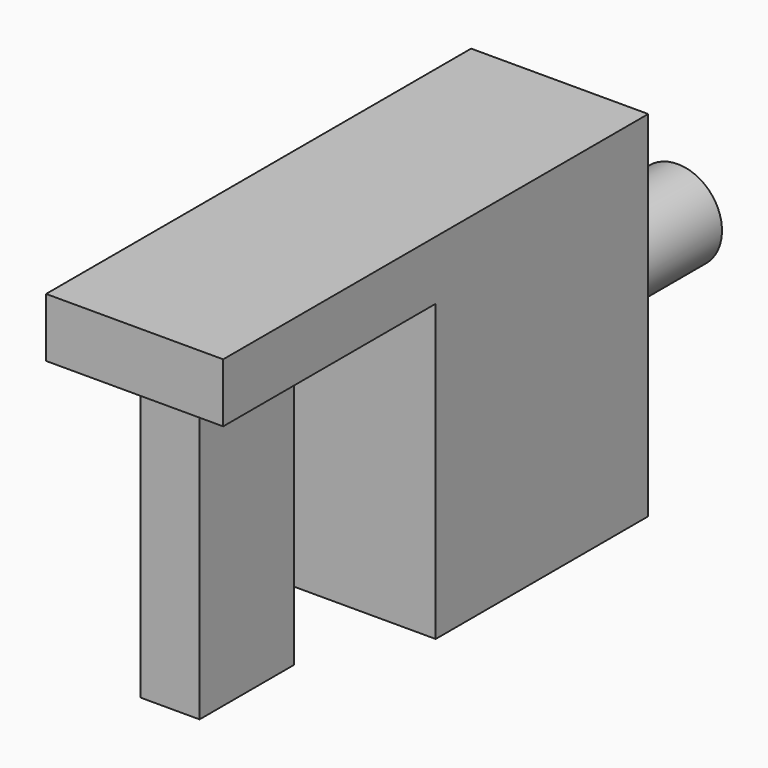
from build123d import *

# Parameters (mm, degrees)
F0_W     = 6
F0_H     = 18
F1_DEPTH = 12
F2_W     = 6
F2_H     = 9
F2_W_2   = 2
F2_H_2   = 4
F3_DEPTH = 10
F4_R     = 1.5
F5_DEPTH = 5


with BuildPart() as f1:
    # F0 (on Top) → F1 (new body)
    with BuildSketch(Plane.XY):
        Rectangle(F0_W, F0_H)
    extrude(amount=F1_DEPTH)

    # F2 (on face) → F3 (cut)
    with BuildSketch(Plane(origin=(0, 0, 0), x_dir=(1, 0, 0), z_dir=(0, 0, -1))):
        with Locations((0, 4.5)):
            Rectangle(F2_W, F2_H)
        with Locations((0, 5.5)):
            Rectangle(F2_W_2, F2_H_2, mode=Mode.SUBTRACT)
    extrude(amount=-F3_DEPTH, mode=Mode.SUBTRACT)

    # F4 (on face) → F5 (join)
    with BuildSketch(Plane(origin=(0, 9, 0), x_dir=(-1, 0, 0), z_dir=(0, 1, 0))):
        with Locations((0, 6)):
            Circle(F4_R)
    extrude(amount=F5_DEPTH)


solid = f1.part
